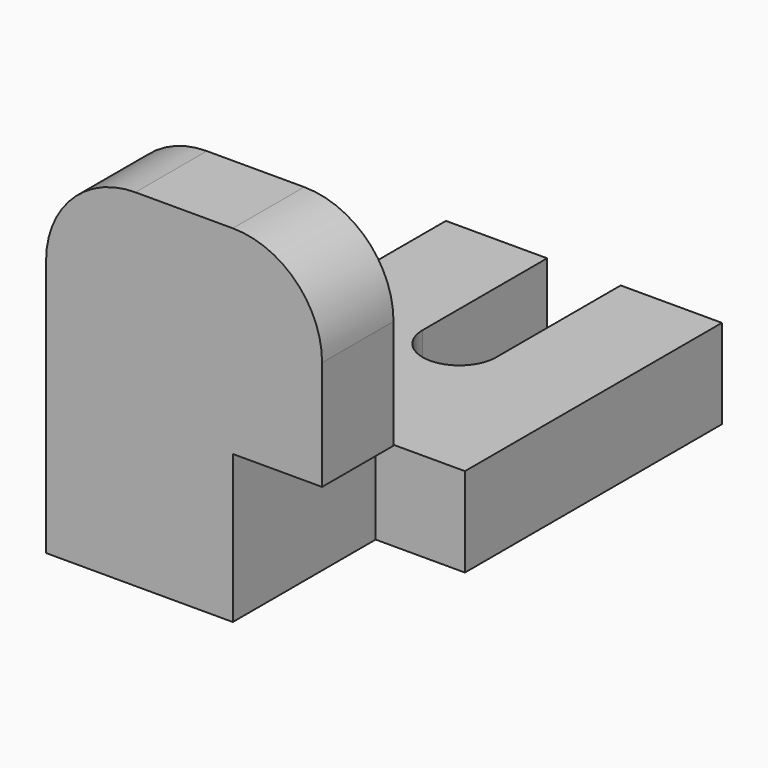
from build123d import *

# Parameters (mm, degrees)
F0_W      = 78.519128263
F0_H      = 116.7847812176
F1_DEPTH  = 25.4
F2_W      = 20.9176447242
F2_H      = 88.5459557176
F3_DEPTH  = 25.401
F4_R      = 10.4588223621
F5_DEPTH  = 25.4
F6_W      = 78.519128263
F6_H      = 98.6174941063
F7_DEPTH  = 25.4
F8_R      = 25.4
F9_W      = 25.4
F9_H      = 42.0989841223
F10_DEPTH = 25.4
F11_DEPTH = 25.4


with BuildPart() as f1:
    # F0 (on Top) → F1 (new body)
    with BuildSketch(Plane.XY):
        Rectangle(F0_W, F0_H)
    extrude(amount=F1_DEPTH)

    # F2 (on face) → F3 (cut, through all)
    with BuildSketch(Plane.XY.offset(25.4)):
        with Locations((0, 58.3923906088)):
            Rectangle(F2_W, F2_H)
    extrude(amount=-F3_DEPTH, mode=Mode.SUBTRACT)

    # F4 (on face) → F5 (cut)
    with BuildSketch(Plane.XY.offset(25.4)):
        with Locations((0, 14.11941275)):
            Circle(F4_R)
    extrude(amount=-F5_DEPTH, mode=Mode.SUBTRACT)

    # F6 (on face) → F7 (join)
    with BuildSketch(Plane.XZ.offset(58.3923906088)):
        with Locations((0, 49.3087470531)):
            Rectangle(F6_W, F6_H)
    extrude(amount=F7_DEPTH)

    # F8
    f8_edges = [f1.edges().sort_by_distance(p)[0] for p in [
        (-39.259564, -71.092391, 98.617494),
        (39.259564, -71.092391, 98.617494),
    ]]
    fillet(f8_edges, radius=F8_R)

    # F9 (on face) → F10 (cut)
    with BuildSketch(Plane.YZ.offset(39.2595641315)):
        with Locations((-71.0923906088, 21.0494920611)):
            Rectangle(F9_W, F9_H)
    extrude(amount=-F10_DEPTH, mode=Mode.SUBTRACT)

    # F11 (cut): a face of the model
    f11_faces = [f1.faces().sort_by_distance(p)[0] for p in [
        (26.5595641315, -58.3923906088, 12.7),
    ]]
    extrude(f11_faces, amount=-F11_DEPTH, mode=Mode.SUBTRACT)


solid = f1.part
